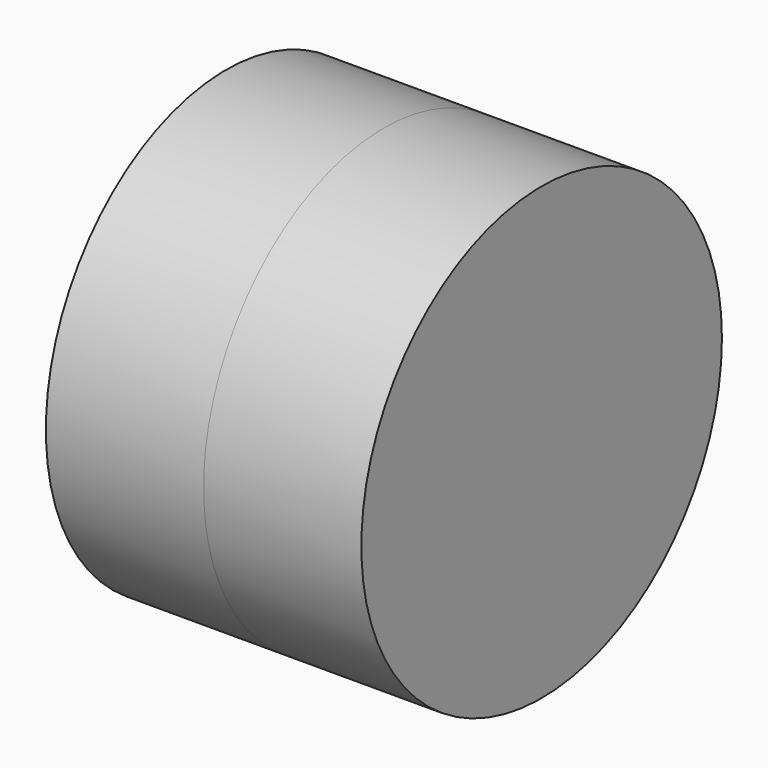
from build123d import *

# Parameters (mm, degrees)
F0_R      = 36.2887451917
F1_DEPTH  = 25.4
F3_DEPTH  = 25.4
F4_DEPTH  = 25.4
F5_DEPTH  = 25.4
F4_FACE_R = 36.2887451917
F2_R      = 24.6714612135
F6_DEPTH  = 25.4
F7_DEPTH  = 25.4
F8_DEPTH  = 25.4


with BuildPart() as f1:
    # F0 (on Right) → F1 (new body)
    with BuildSketch(Plane.YZ):
        Circle(F0_R)
    extrude(amount=F1_DEPTH)



with BuildPart() as f3:
    # F0 (on Right) → F3 (new body)
    with BuildSketch(Plane.YZ):
        Circle(F0_R)
    extrude(amount=F3_DEPTH)


with BuildPart() as f1_1:
    add(f1.part)
    # F4 (add): a face of the model
    f4_faces = [f3.part.faces().sort_by_distance(p)[0] for p in [
        (25.4, 0, 0),
    ]]

    add(f3.part)  # F4 merges F3
    extrude(f4_faces, amount=F4_DEPTH)

    # F5 (add): a face of the model
    f5_faces = [f1_1.faces().sort_by_distance(p)[0] for p in [
        (50.8, 0, 0),
    ]]
    extrude(f5_faces, amount=-F5_DEPTH)

    # F4_face (on face) + F2 (on face) → F6 (join)
    with BuildSketch(Plane.YZ.offset(50.8)):
        Circle(F4_FACE_R)
    with BuildSketch(Plane.YZ.offset(25.4)):
        with Locations((0, -0.9449110366)):
            Circle(F2_R)
    extrude(amount=-F6_DEPTH)

    # F7 (add): a face of the model
    f7_faces = [f1_1.faces().sort_by_distance(p)[0] for p in [
        (50.8, 0, 0),
    ]]
    extrude(f7_faces, amount=-F7_DEPTH)


with BuildPart() as f8:
    # F8 (new): a face of the model
    f8_faces = [f1_1.part.faces().sort_by_distance(p)[0] for p in [
        (50.8, 0, 0),
    ]]
    extrude(f8_faces, amount=-F8_DEPTH)


solid = Compound([f1_1.part, f8.part])
